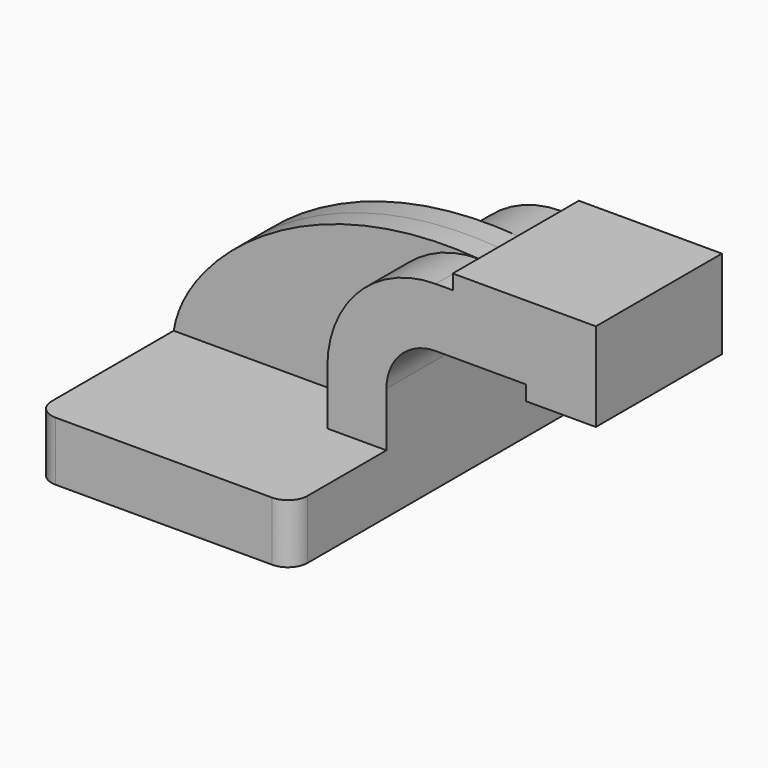
from build123d import *

# Parameters (mm, degrees)
F1_DEPTH = 63.5
F0_W     = 23.5502142146
F0_H     = 19.05
F0_H_2   = 4.7498
F2_DEPTH = 25.4
F3_DEPTH = 7.9375
F4_R     = 6.35


with BuildPart() as f1:
    # F0 (on Front) → F1 (new body, symmetric)
    with BuildSketch(Plane.XZ):
        Polygon((41.275, -9.525), (41.275, 9.525), (22.225, 9.525), (-41.275, 9.525), (-41.275, -9.525), align=None)
    extrude(amount=F1_DEPTH, both=True)

    # F0 (on Front) → F2 (join, symmetric)
    with BuildSketch(Plane.XZ):
        with BuildLine():
            Line((22.225, 9.525), (41.275, 9.525))
            Line((41.275, 9.525), (41.275, 27.0002))
            ThreePointArc((41.275, 27.0002), (45.9246798487, 38.2255201513), (57.15, 42.8752))
            Line((57.15, 42.8752), (62.6595669536, 42.8752))
            Line((62.6595669536, 42.8752), (62.6595669536, 61.9252))
            Line((62.6595669536, 61.9252), (57.15, 61.9252))
            ThreePointArc((57.15, 61.9252), (32.4542956671, 51.6959043329), (22.225, 27.0002))
            Line((22.225, 27.0002), (22.225, 9.525))
        make_face()
        with Locations((74.4346740609, 52.4002)):
            Rectangle(F0_W, F0_H)
        Polygon((86.2097811682, 61.9252), (86.2097811682, 42.8752), (86.2097811682, 38.1), (108.7904330464, 38.1), (108.7904330464, 66.675), (86.2097811682, 66.675), align=None)
        with Locations((74.4346740609, 64.3001)):
            Rectangle(F0_W, F0_H_2)
    extrude(amount=F2_DEPTH, both=True)

    # F0 (on Front) → F3 (join, symmetric)
    with BuildSketch(Plane.XZ):
        with BuildLine():
            Line((-41.275, 9.525), (22.225, 9.525))
            Line((22.225, 9.525), (22.225, 27.0002))
            ThreePointArc((22.225, 27.0002), (32.4542956671, 51.6959043329), (57.15, 61.9252))
            add(Edge.make_bspline(
                [(-41.275, 9.525), (-37.8933270554, 32.3415985166), (0, 66.4274916053), (57.15, 61.9252)],
                knots=[0, 0, 0, 0, 111.5045361635, 111.5045361635, 111.5045361635, 111.5045361635], degree=3))
        make_face()
    extrude(amount=F3_DEPTH, both=True)

    # F4
    f4_edges = [f1.edges().sort_by_distance(p)[0] for p in [
        (41.275, 63.5, 0),
        (-41.275, 63.5, 0),
        (41.275, -63.5, 0),
        (-41.275, -63.5, 0),
    ]]
    fillet(f4_edges, radius=F4_R)


solid = f1.part
